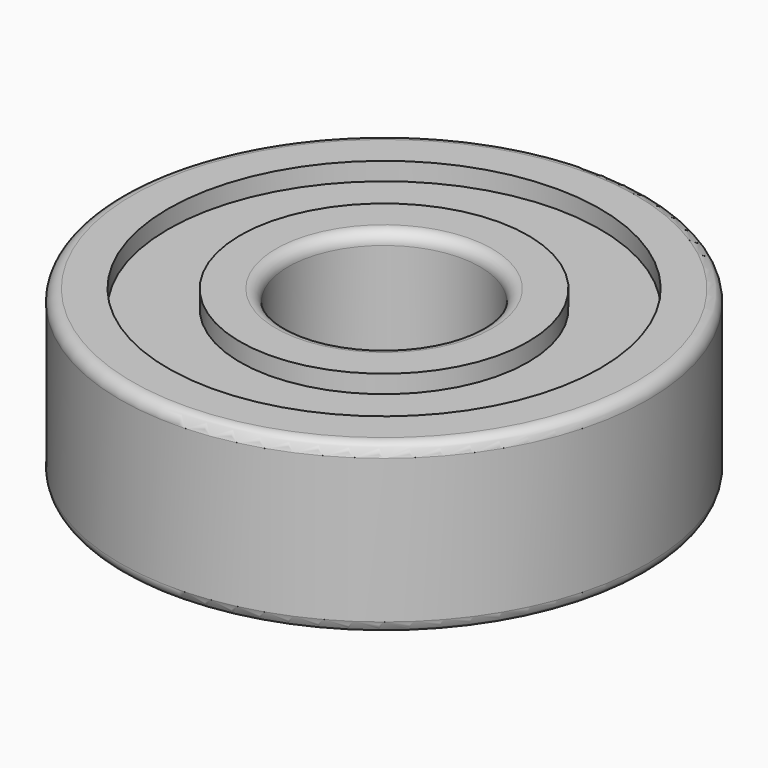
from build123d import *

# Parameters (mm, degrees)
F0_R     = 11
F0_R_2   = 4
F1_DEPTH = 3.5
F2_R     = 0.5
F3_R     = 9
F3_R_2   = 6
F4_DEPTH = 5.75
F5_R     = 9
F5_R_2   = 6
F6_DEPTH = 2.75


with BuildPart() as f1:
    # F0 (on Top) → F1 (new body, symmetric)
    with BuildSketch(Plane.XY):
        Circle(F0_R)
        Circle(F0_R_2, mode=Mode.SUBTRACT)
    extrude(amount=F1_DEPTH, both=True)

    # F2
    f2_edges = [f1.edges().sort_by_distance(p)[0] for p in [
        (-11, 0, 3.5),
        (-11, 0, -3.5),
        (-4, 0, 3.5),
        (-4, 0, -3.5),
    ]]
    fillet(f2_edges, radius=F2_R)

    # F3 (on Top) → F4 (cut, symmetric)
    with BuildSketch(Plane.XY):
        Circle(F3_R)
        Circle(F3_R_2, mode=Mode.SUBTRACT)
    extrude(amount=F4_DEPTH, both=True, mode=Mode.SUBTRACT)


with BuildPart() as f6:
    # F5 (on Top) → F6 (new body, symmetric)
    with BuildSketch(Plane.XY):
        Circle(F5_R)
        Circle(F5_R_2, mode=Mode.SUBTRACT)
    extrude(amount=F6_DEPTH, both=True)


solid = Compound([f1.part, f6.part])
